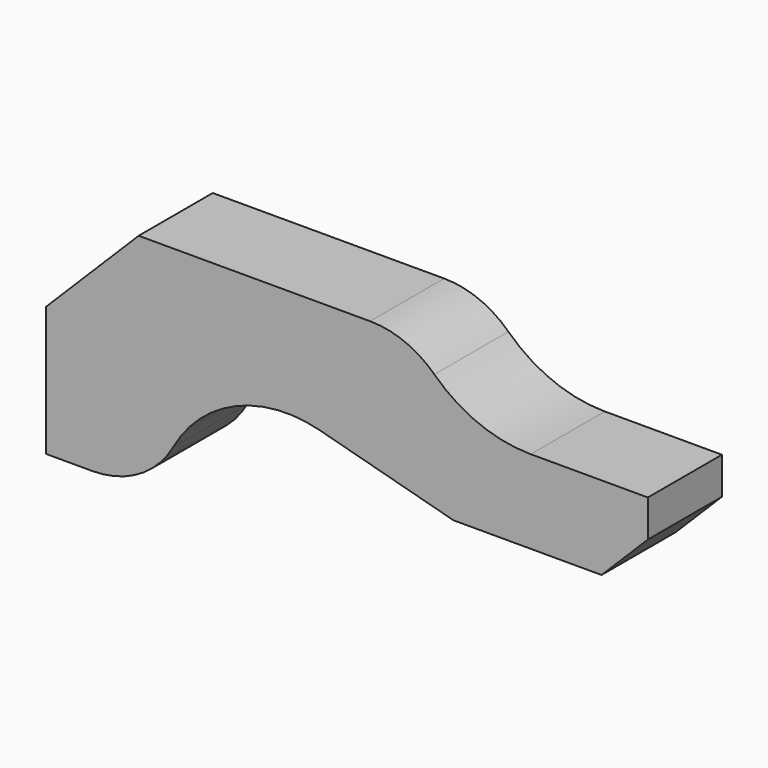
from build123d import *

# Parameters (mm, degrees)
F1_DEPTH = 5


with BuildPart() as f1:
    # F0 (on Front) → F1 (new body, symmetric)
    with BuildSketch(Plane.XZ):
        with BuildLine():
            Line((0, 14), (0, 0))
            Line((0, 0), (5, 0))
            ThreePointArc((5, 0), (10.0695014716, 1.3802462431), (13.7395708711, 5.1399690342))
            ThreePointArc((13.7395708711, 5.1399690342), (20.5135315234, 11.226724291), (29.5984367221, 11.8588872501))
            Line((29.5984367221, 11.8588872501), (44, 8))
            Line((44, 8), (60, 8))
            Line((60, 8), (65, 13))
            Line((65, 13), (65, 17))
            Line((65, 17), (52.3493515729, 17))
            ThreePointArc((52.3493515729, 17), (46.7368654927, 18.0895722568), (41.9397406292, 21.2))
            ThreePointArc((41.9397406292, 21.2), (38.7416573868, 23.2736184955), (35, 24))
            Line((35, 24), (10, 24))
            Line((10, 24), (0, 14))
        make_face()
    extrude(amount=F1_DEPTH, both=True)


solid = f1.part
